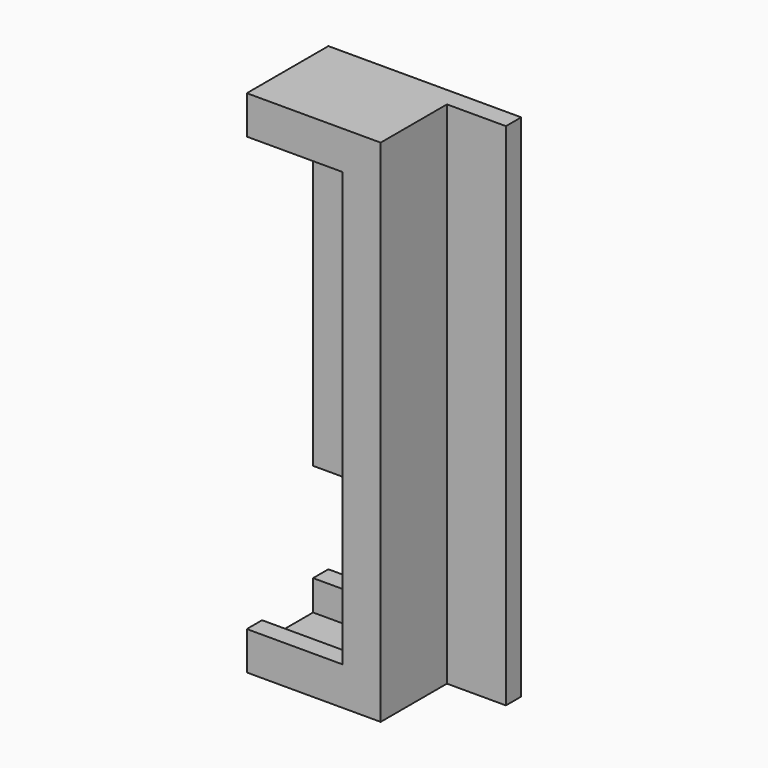
from build123d import *

# Parameters (mm, degrees)
F0_W      = 30.25
F0_H      = 80
F1_DEPTH  = 3
F2_W      = 15.5
F2_H      = 15.5
F3_DEPTH  = 3
F4_DEPTH  = 13
F6_W      = 18
F6_H      = 3
F7_DEPTH  = 3
F5_W      = 3
F5_H      = 74
F8_DEPTH  = 3
F9_W      = 15
F9_H      = 3
F10_DEPTH = 3
F11_W     = 7.5
F11_H     = 40
F12_DEPTH = 3.5
F14_DEPTH = 40


with BuildPart() as f1:
    # F0 (on Front) → F1 (new body)
    with BuildSketch(Plane.XZ):
        with Locations((15.125, 40)):
            Rectangle(F0_W, F0_H)
    extrude(amount=F1_DEPTH)

    # F2 (on face) → F3 (cut)
    with BuildSketch(Plane.XZ.offset(3)):
        with Locations((7.75, 15.5)):
            Rectangle(F2_W, F2_H)
    extrude(amount=-F3_DEPTH, mode=Mode.SUBTRACT)

    # F2 (on face) → F4 (join)
    with BuildSketch(Plane.XZ.offset(3)):
        Polygon((18, 3), (0, 3), (0, 0), (21, 0), (21, 80), (0, 80), (0, 77), (18, 77), align=None)
    extrude(amount=F4_DEPTH)

    # F6 (on face) → F7 (join)
    with BuildSketch(Plane.XY.offset(3)):
        with Locations((9, -14.5)):
            Rectangle(F6_W, F6_H)
    extrude(amount=F7_DEPTH)

    # F5 (on face) → F8 (join)
    with BuildSketch(Plane(origin=(18, 0, 0), x_dir=(0, -1, 0), z_dir=(-1, 0, 0))):
        with Locations((14.5, 40)):
            Rectangle(F5_W, F5_H)
    extrude(amount=F8_DEPTH)

    # F9 (on face) → F10 (join)
    with BuildSketch(Plane(origin=(0, 0, 77), x_dir=(1, 0, 0), z_dir=(0, 0, -1))):
        with Locations((7.5, 14.5)):
            Rectangle(F9_W, F9_H)
    extrude(amount=F10_DEPTH)

    # F11 (on face) → F12 (join)
    with BuildSketch(Plane(origin=(0, 0, 0), x_dir=(-1, 0, 0), z_dir=(0, 1, 0))):
        with Locations((-22, 35.75)):
            Rectangle(F11_W, F11_H)
    extrude(amount=F12_DEPTH)

    # F13 (on face) → F14 (cut)
    with BuildSketch(Plane.XY.offset(55.75)):
        Polygon((25.75, 0), (25.75, 3.5), (24.75, 0), align=None)
        Polygon((19.25, 0), (18.25, 3.5), (18.25, 0), align=None)
    extrude(amount=-F14_DEPTH, mode=Mode.SUBTRACT)


solid = f1.part
